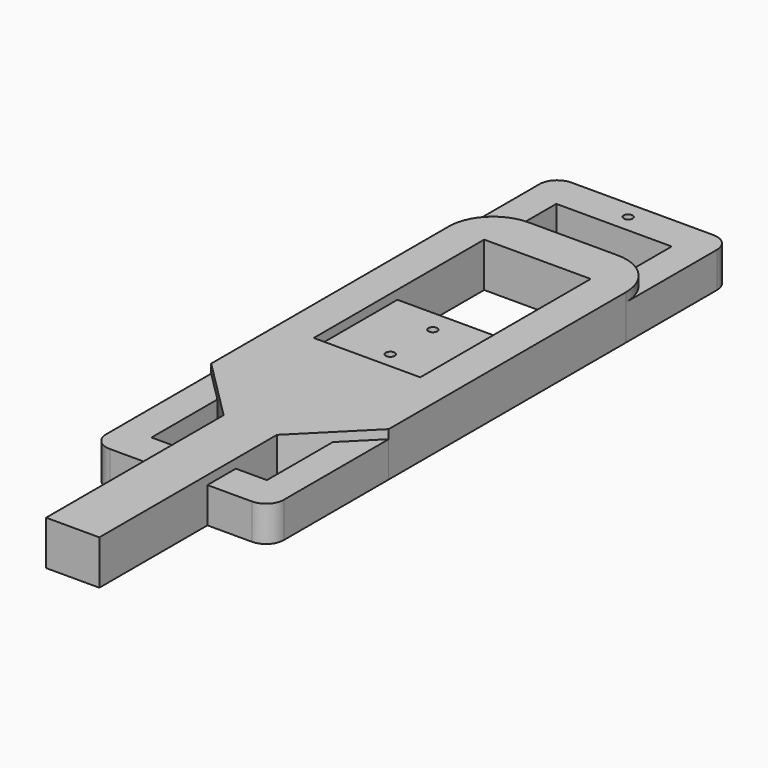
from build123d import *

# Parameters (mm, degrees)
F0_W     = 20
F0_H     = 65
F0_R     = 0.5
F0_W_2   = 13
F0_H_2   = 23
F1_DEPTH = 4
F2_R     = 2
F3_W     = 20
F3_H     = 45.4407371581
F3_W_2   = 12
F3_H_2   = 24
F4_DEPTH = 5
F5_SIZE  = 7
F6_DEPTH = 25
F7_R     = 5


with BuildPart() as f1:
    # F0 (on Top) → F1 (new body)
    with BuildSketch(Plane.XY):
        Rectangle(F0_W, F0_H)
        with Locations((0, -30.5)):
            Circle(F0_R, mode=Mode.SUBTRACT)
        with Locations((0, -17)):
            Rectangle(F0_W_2, F0_H_2, mode=Mode.SUBTRACT)
        with Locations((0, -3)):
            Circle(F0_R, mode=Mode.SUBTRACT)
        with Locations((0, 3)):
            Circle(F0_R, mode=Mode.SUBTRACT)
        with Locations((0, 17)):
            Rectangle(F0_W_2, F0_H_2, mode=Mode.SUBTRACT)
        with Locations((0, 30.5)):
            Circle(F0_R, mode=Mode.SUBTRACT)
    extrude(amount=F1_DEPTH)

    # F2
    f2_edges = [f1.edges().sort_by_distance(p)[0] for p in [
        (10, -32.5, 2),
        (10, 32.5, 2),
        (-10, -32.5, 2),
        (-10, 32.5, 2),
    ]]
    fillet(f2_edges, radius=F2_R)


with BuildPart() as f4:
    # F3 (on Top) → F4 (new body)
    with BuildSketch(Plane.XY):
        Rectangle(F3_W, F3_H)
        with Locations((0, 5.720368579)):
            Rectangle(F3_W_2, F3_H_2, mode=Mode.SUBTRACT)
    extrude(amount=F4_DEPTH)

    # F5
    f5_edges = [f4.edges().sort_by_distance(p)[0] for p in [
        (-10, -22.720369, 2.5),
        (10, -22.720369, 2.5),
    ]]
    chamfer(f5_edges, length=F5_SIZE)

    # F6 (add): a face of the model
    f6_faces = [f4.faces().sort_by_distance(p)[0] for p in [
        (0, -22.720368579, 2.5),
    ]]
    extrude(f6_faces, amount=F6_DEPTH)

    # F7
    f7_edges = [f4.edges().sort_by_distance(p)[0] for p in [
        (10, 22.720369, 2.5),
        (-10, 22.720369, 2.5),
    ]]
    fillet(f7_edges, radius=F7_R)


solid = Compound([f1.part, f4.part])
